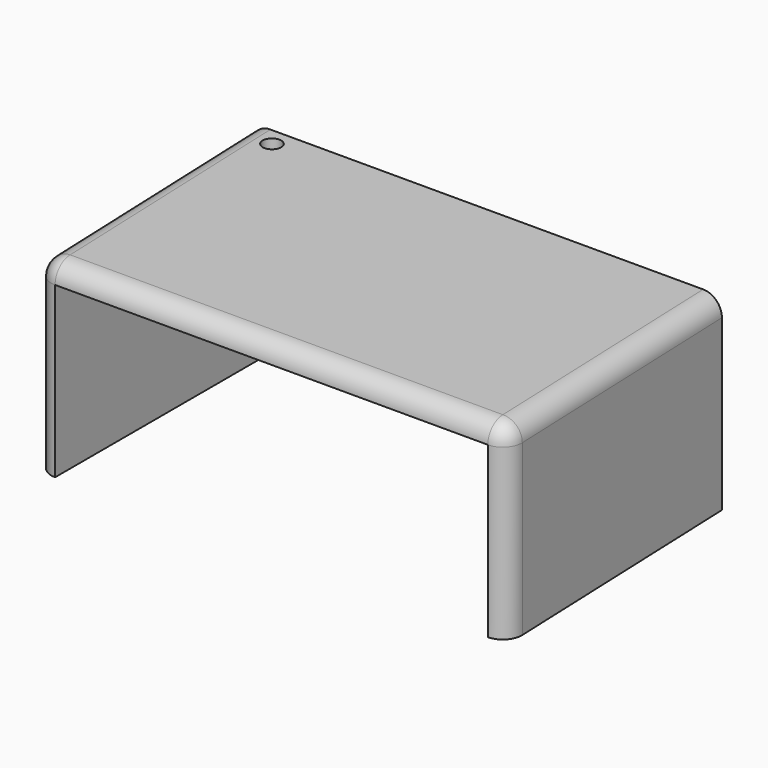
from build123d import *

# Parameters (mm, degrees)
F1_DEPTH  = 50.8
F2_R      = 5.08
F1_FACE_W = 116.832122
F1_FACE_H = 45.72
F3_DEPTH  = 75.692
F5_D      = 5


with BuildPart() as f1:
    # F0 (on Top) → F1 (new body)
    with BuildSketch(Plane.XY):
        Polygon((-2.999169, 76.140955), (0, 0), (127, 0), (124.000831, 76.140955), align=None)
    extrude(amount=F1_DEPTH)

    # F2
    f2_edges = [f1.edges().sort_by_distance(p)[0] for p in [
        (63.5, 0, 50.8),
        (125.500415, 38.070477, 50.8),
        (127, 0, 25.4),
        (0, 0, 25.4),
        (-1.499585, 38.070477, 50.8),
    ]]
    fillet(f2_edges, radius=F2_R)

    # F1_face (on face) → F3 (cut)
    with BuildSketch(Plane(origin=(63.2999, 0, 22.86), x_dir=(1, 0, 0), z_dir=(0, -1, 0))):
        Rectangle(F1_FACE_W, F1_FACE_H)
    extrude(amount=-F3_DEPTH, mode=Mode.SUBTRACT)

    # F5 (through all)
    with Locations(Plane.XY.offset(50.8)):
        with Locations((6.445575, 71.227975)):
            Hole(F5_D / 2)


solid = f1.part
